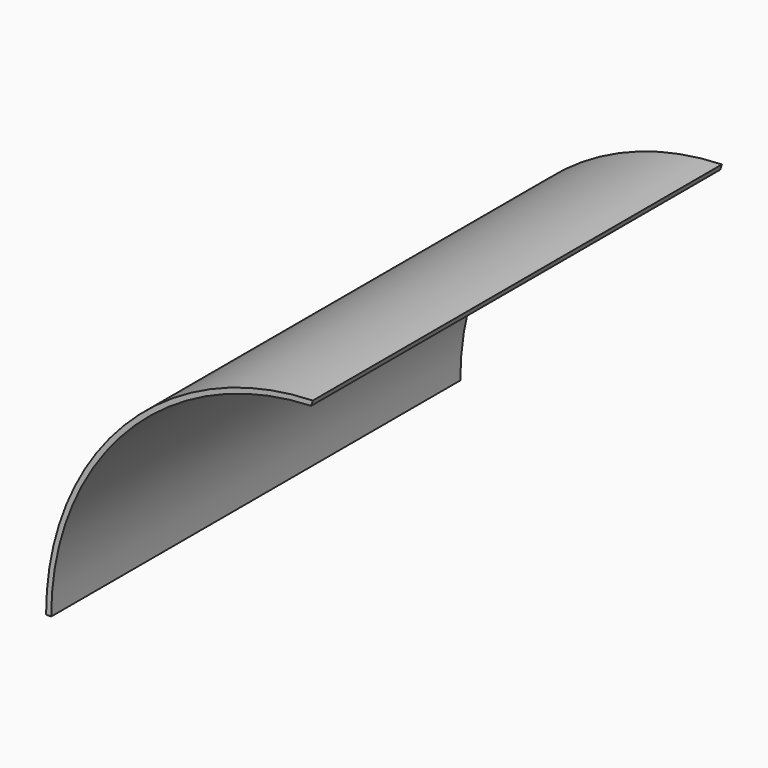
from build123d import *

# Parameters (mm, degrees)
F1_DEPTH = 6
F2_DEPTH = 500


with BuildPart() as f1:
    # F0 (on Front) → F1 (new body)
    with BuildSketch(Plane.XZ):
        with BuildLine():
            Line((239.936832, 264.066564), (241.535774, 269.12517))
            ThreePointArc((241.535774, 269.12517), (56.636272, 187.377877), (-19.25824, 0))
            Line((-19.25824, 0), (-14.25824, 0))
            ThreePointArc((-14.25824, 0), (59.616581, 183.266394), (239.936832, 264.066564))
        make_face()
    extrude(amount=-F1_DEPTH)

    # F0 (on Front) + F1_face (on face) → F2 (join)
    with BuildSketch(Plane.XZ):
        with BuildLine():
            Line((239.936832, 264.066564), (241.535774, 269.12517))
            ThreePointArc((241.535774, 269.12517), (56.636272, 187.377877), (-19.25824, 0))
            Line((-19.25824, 0), (-14.25824, 0))
            ThreePointArc((-14.25824, 0), (59.616581, 183.266394), (239.936832, 264.066564))
        make_face()
    with BuildSketch(Plane(origin=(76.436369, 0, 167.639659), x_dir=(1, 0, 0), z_dir=(0, -1, 0))):
        with BuildLine():
            Line((-95.694609, -167.639659), (-90.694609, -167.639659))
            ThreePointArc((-90.694609, -167.639659), (-16.819788, 15.626735), (163.500464, 96.426905))
            Line((163.500464, 96.426905), (165.099405, 101.48551))
            ThreePointArc((165.099405, 101.48551), (-19.800097, 19.738217), (-95.694609, -167.639659))
        make_face()
    extrude(amount=-F2_DEPTH)


solid = f1.part
